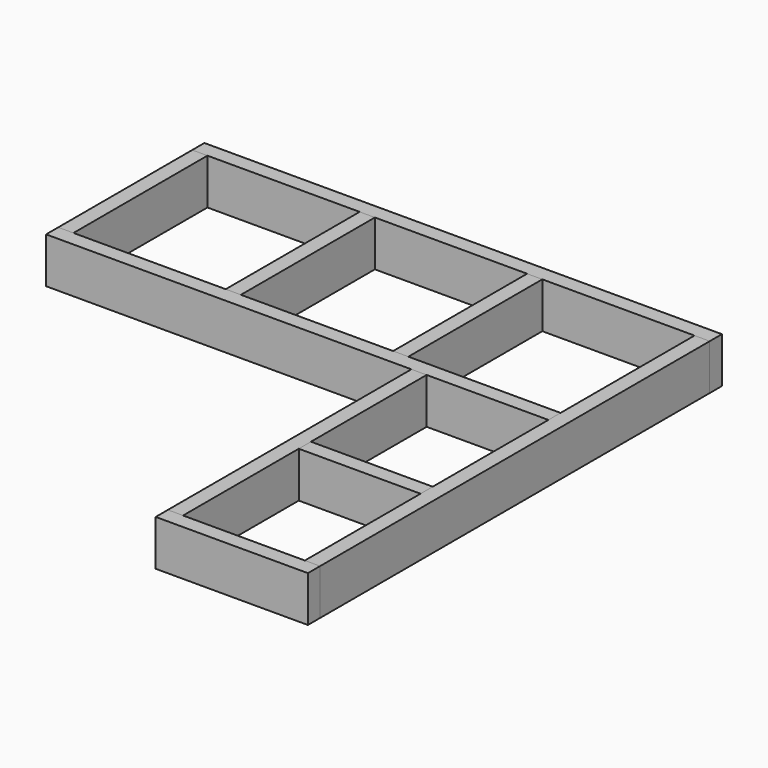
from build123d import *

# Parameters (mm, degrees)
F1_DEPTH = 152.4
F0_W     = 50.8
F0_H     = 558.8
F2_DEPTH = 152.4
F3_DEPTH = 152.4
F4_DEPTH = 152.4
F5_DEPTH = 152.4
F0_W_2   = 406.4
F0_H_2   = 50.8
F6_DEPTH = 152.4
F7_DEPTH = 152.4
F8_DEPTH = 152.4
F9_DEPTH = 152.4


with BuildPart() as f1:
    # F0 (on Top) → F1 (new body)
    with BuildSketch(Plane.XY):
        Polygon((1727.2, 0), (0, 0), (0, -50.8), (50.8, -50.8), (558.8, -50.8), (609.6, -50.8), (1117.6, -50.8), (1168.4, -50.8), (1676.4, -50.8), (1727.2, -50.8), align=None)
    extrude(amount=-F1_DEPTH)


with BuildPart() as f2:
    # F0 (on Top) → F2 (new body)
    with BuildSketch(Plane.XY):
        with Locations((25.4, -330.2)):
            Rectangle(F0_W, F0_H)
    extrude(amount=-F2_DEPTH)


with BuildPart() as f3:
    # F0 (on Top) → F3 (new body)
    with BuildSketch(Plane.XY):
        Polygon((50.8, -609.6), (0, -609.6), (0, -660.4), (1219.2, -660.4), (1270, -660.4), (1676.4, -660.4), (1676.4, -609.6), (1168.4, -609.6), (1117.6, -609.6), (609.6, -609.6), (558.8, -609.6), align=None)
    extrude(amount=-F3_DEPTH)


with BuildPart() as f4:
    # F0 (on Top) → F4 (new body)
    with BuildSketch(Plane.XY):
        with Locations((584.2, -330.2)):
            Rectangle(F0_W, F0_H)
    extrude(amount=-F4_DEPTH)


with BuildPart() as f5:
    # F0 (on Top) → F5 (new body)
    with BuildSketch(Plane.XY):
        with Locations((1143, -330.2)):
            Rectangle(F0_W, F0_H)
    extrude(amount=-F5_DEPTH)


with BuildPart() as f6:
    # F0 (on Top) → F6 (new body)
    with BuildSketch(Plane.XY):
        with Locations((1473.2, -1168.4)):
            Rectangle(F0_W_2, F0_H_2)
    extrude(amount=-F6_DEPTH)


with BuildPart() as f7:
    # F0 (on Top) → F7 (new body)
    with BuildSketch(Plane.XY):
        Polygon((1727.2, -1727.2), (1727.2, -1676.4), (1676.4, -1676.4), (1270, -1676.4), (1219.2, -1676.4), (1219.2, -1727.2), align=None)
    extrude(amount=-F7_DEPTH)


with BuildPart() as f8:
    # F0 (on Top) → F8 (new body)
    with BuildSketch(Plane.XY):
        Polygon((1727.2, -1676.4), (1727.2, -50.8), (1676.4, -50.8), (1676.4, -609.6), (1676.4, -660.4), (1676.4, -1143), (1676.4, -1193.8), (1676.4, -1676.4), align=None)
    extrude(amount=-F8_DEPTH)


with BuildPart() as f9:
    # F0 (on Top) → F9 (new body)
    with BuildSketch(Plane.XY):
        Polygon((1270, -660.4), (1219.2, -660.4), (1219.2, -1676.4), (1270, -1676.4), (1270, -1193.8), (1270, -1143), align=None)
    extrude(amount=-F9_DEPTH)


solid = Compound([f1.part, f2.part, f3.part, f4.part, f5.part, f6.part, f7.part, f8.part, f9.part])
